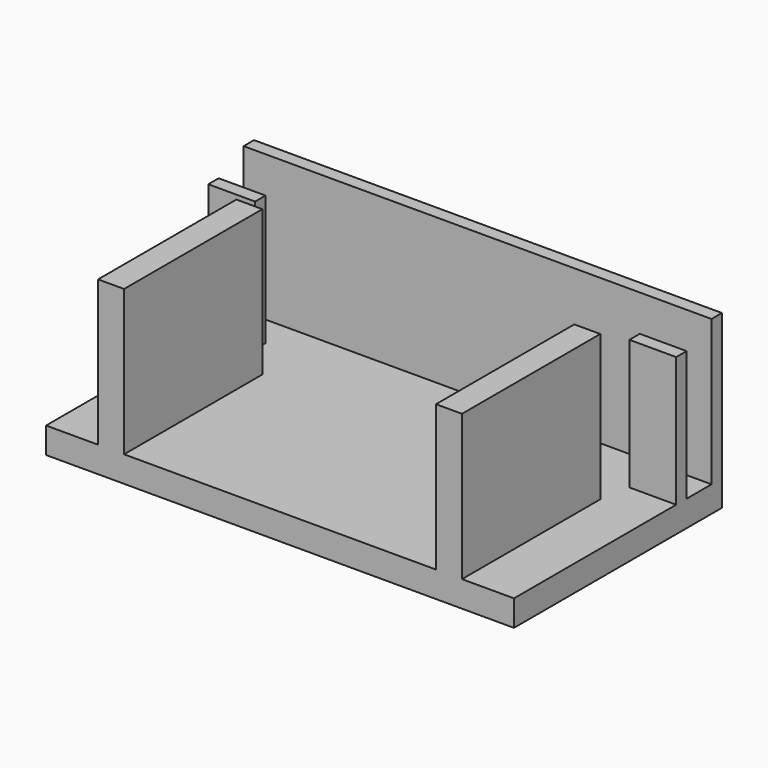
from build123d import *

# Parameters (mm, degrees)
F0_W     = 45.72
F0_H     = 25.4
F1_DEPTH = 2.54
F2_W     = 2.54
F2_H     = 16.891
F3_DEPTH = 14.224
F4_W     = 45.72
F4_H     = 1.27
F5_DEPTH = 14.224
F6_W     = 4.572
F6_H     = 1.27
F7_DEPTH = 12.7


with BuildPart() as f1:
    # F0 (on Top) → F1 (new body)
    with BuildSketch(Plane.XY):
        with Locations((14.433108, -4.829161)):
            Rectangle(F0_W, F0_H)
    extrude(amount=F1_DEPTH)

    # F2 (on face) → F3 (join)
    with BuildSketch(Plane.XY.offset(2.54)):
        with Locations((-2.076892, -9.083661)):
            Rectangle(F2_W, F2_H)
        with Locations((30.943108, -9.083661)):
            Rectangle(F2_W, F2_H)
    extrude(amount=F3_DEPTH)

    # F4 (on face) → F5 (join)
    with BuildSketch(Plane.XY.offset(2.54)):
        with Locations((14.433108, 7.235839)):
            Rectangle(F4_W, F4_H)
    extrude(amount=F5_DEPTH)

    # F6 (on face) → F7 (join)
    with BuildSketch(Plane.XY.offset(2.54)):
        with Locations((-6.140892, 2.917839)):
            Rectangle(F6_W, F6_H)
        with Locations((35.007108, 2.917839)):
            Rectangle(F6_W, F6_H)
    extrude(amount=F7_DEPTH)


solid = f1.part
